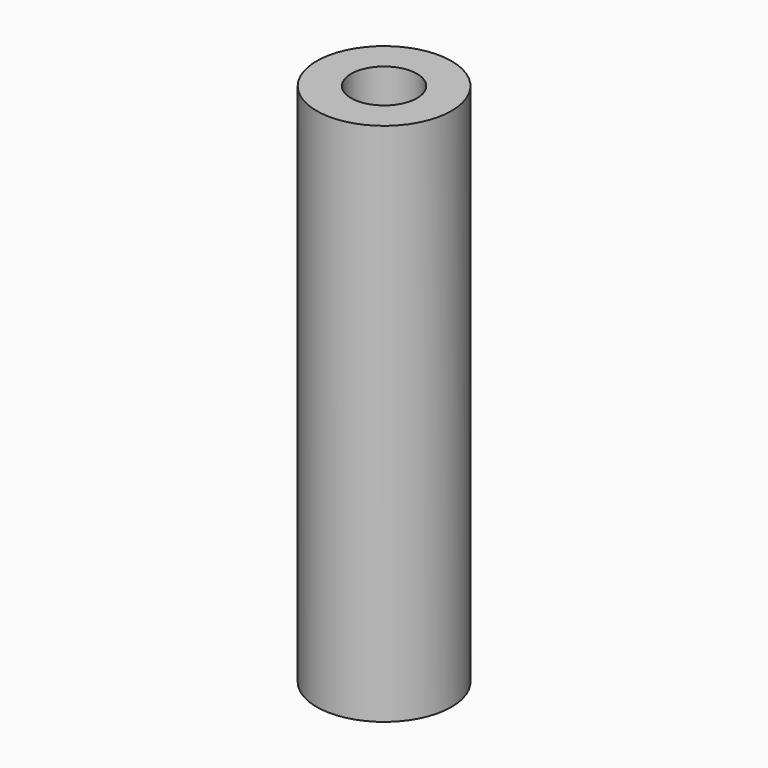
from build123d import *

# Parameters (mm, degrees)
F0_R     = 9
F0_R_2   = 4.4
F1_DEPTH = 70
F2_SCALE = 2


with BuildPart() as f1:
    # F0 (on Top) → F1 (new body)
    with BuildSketch(Plane.XY):
        Circle(F0_R)
        Circle(F0_R_2, mode=Mode.SUBTRACT)
    extrude(amount=F1_DEPTH)


with BuildPart() as f2_1:
    # F2: copy of F1
    add(f1.part.scale(F2_SCALE))


solid = Compound([f1.part, f2_1.part])
